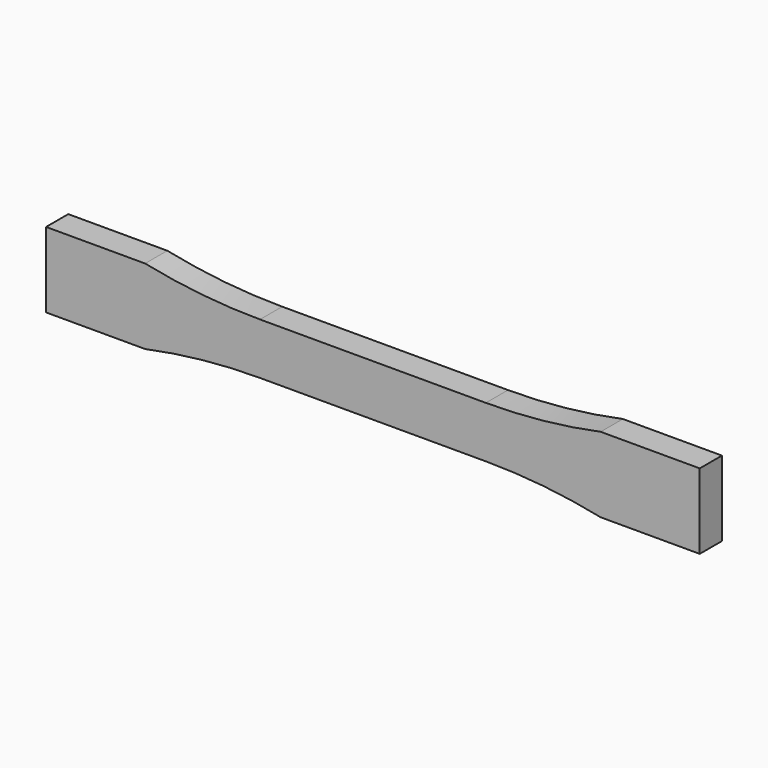
from build123d import *

# Parameters (mm, degrees)
F1_DEPTH = 7


with BuildPart() as f1:
    # F0 (on Front) → F1 (new body)
    with BuildSketch(Plane.XZ):
        with BuildLine():
            Line((28.5, 6.5), (0, 6.5))
            Line((0, 6.5), (-28.5, 6.5))
            ThreePointArc((-28.5, 6.5), (-43.07738, 7.251996), (-57.5, 9.5))
            Line((-57.5, 9.5), (-82.5, 9.5))
            Line((-82.5, 9.5), (-82.5, 0))
            Line((-82.5, 0), (-82.5, -9.5))
            Line((-82.5, -9.5), (-57.5, -9.5))
            ThreePointArc((-57.5, -9.5), (-43.07738, -7.251996), (-28.5, -6.5))
            Line((-28.5, -6.5), (0, -6.5))
            Line((0, -6.5), (28.5, -6.5))
            ThreePointArc((28.5, -6.5), (43.07738, -7.251996), (57.5, -9.5))
            Line((57.5, -9.5), (82.5, -9.5))
            Line((82.5, -9.5), (82.5, 0))
            Line((82.5, 0), (82.5, 9.5))
            Line((82.5, 9.5), (57.5, 9.5))
            ThreePointArc((57.5, 9.5), (43.07738, 7.251996), (28.5, 6.5))
        make_face()
    extrude(amount=F1_DEPTH)


solid = f1.part
